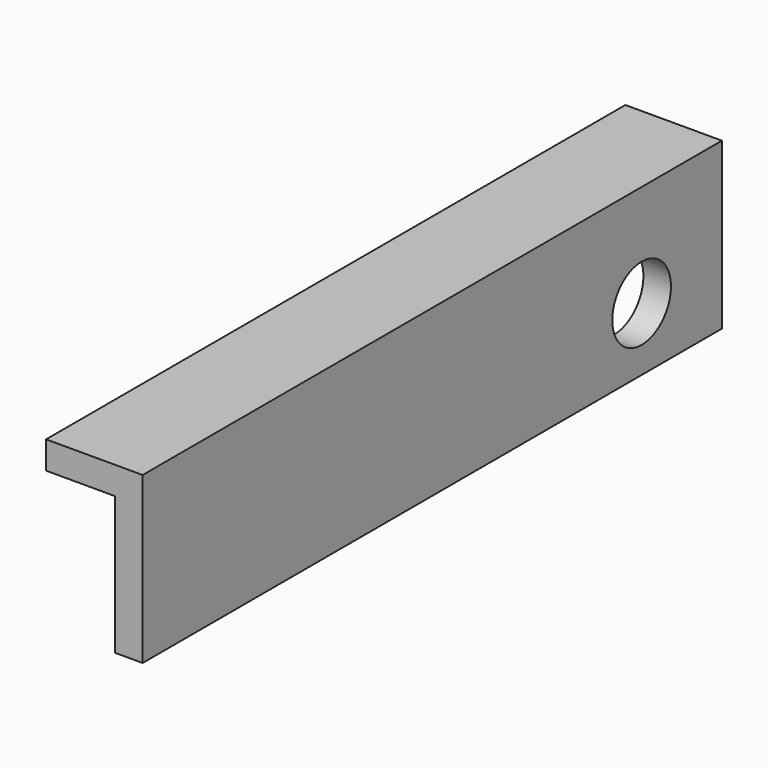
from build123d import *

# Parameters (mm, degrees)
F0_W          = 105
F0_H          = 24
F1_DEPTH      = 2
F1_DEPTH_BACK = 2
F2_W          = 105
F2_H          = 4
F3_DEPTH      = 10
F4_R          = 5.320603
F5_DEPTH      = 4.001


with BuildPart() as f1:
    # F0 (on Right) → F1 (new body, two sides)
    with BuildSketch(Plane.YZ) as f1_sk:
        Rectangle(F0_W, F0_H)
    extrude(amount=F1_DEPTH)
    extrude(f1_sk.sketch, amount=-F1_DEPTH_BACK)

    # F2 (on face) → F3 (join)
    with BuildSketch(Plane(origin=(-2, 0, 0), x_dir=(0, -1, 0), z_dir=(-1, 0, 0))):
        with Locations((0, 10)):
            Rectangle(F2_W, F2_H)
    extrude(amount=F3_DEPTH)

    # F4 (on face) → F5 (cut, through all)
    with BuildSketch(Plane(origin=(-2, 0, 0), x_dir=(0, -1, 0), z_dir=(-1, 0, 0))):
        with Locations((-37.945189, -2.843227)):
            Circle(F4_R)
    extrude(amount=-F5_DEPTH, mode=Mode.SUBTRACT)


solid = f1.part
